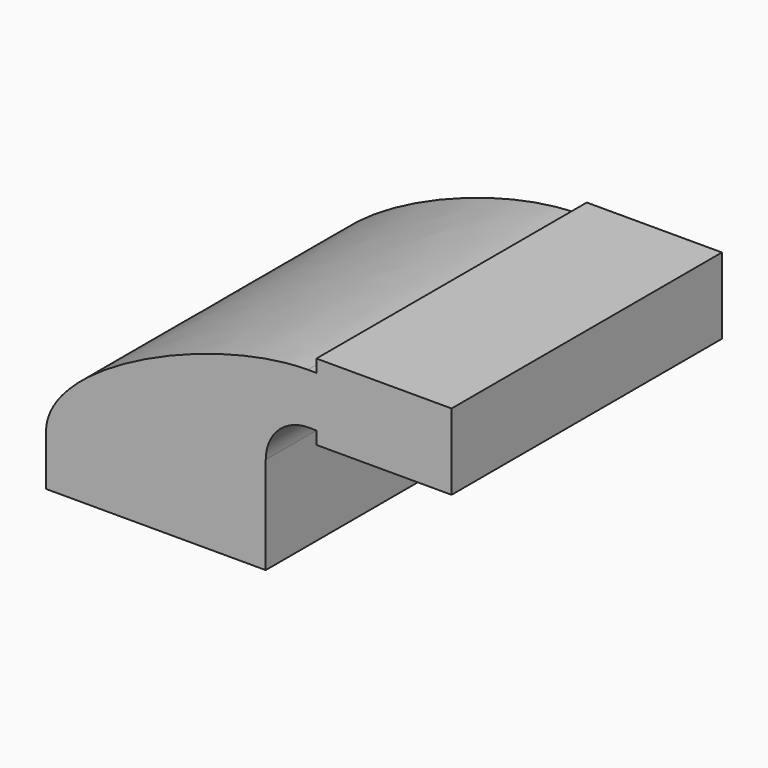
from build123d import *

# Parameters (mm, degrees)
F0_W     = 82.55
F0_H     = 19.05
F0_W_2   = 27.7625424093
F0_H_2   = 4.7498
F0_H_3   = 4.7752
F1_DEPTH = 127


with BuildPart() as f1:
    # F0 (on Front) → F1 (new body)
    with BuildSketch(Plane.XZ):
        with BuildLine():
            add(Edge.make_bspline(
                [(-41.275, 9.525), (-41.275, 33.9924029201), (21.7312667782, 61.9252), (57.15, 61.9252)],
                knots=[0, 0, 0, 0, 111.5045361635, 111.5045361635, 111.5045361635, 111.5045361635], degree=3))
            Line((-41.275, 9.525), (41.275, 9.525))
            Line((41.275, 9.525), (41.275, 27.0002))
            ThreePointArc((41.275, 27.0002), (45.9246798487, 38.2255201513), (57.15, 42.8752))
            Line((57.15, 42.8752), (60.325, 42.8752))
            Line((60.325, 42.8752), (60.325, 61.9252))
            Line((60.325, 61.9252), (57.15, 61.9252))
        make_face()
        Rectangle(F0_W, F0_H)
        with Locations((74.2062712047, 52.4002)):
            Rectangle(F0_W_2, F0_H)
        with Locations((74.2062712047, 64.3001)):
            Rectangle(F0_W_2, F0_H_2)
        with Locations((74.2062712047, 40.4876)):
            Rectangle(F0_W_2, F0_H_3)
        Polygon((88.0875424093, 66.675), (88.0875424093, 61.9252), (88.0875424093, 42.8752), (88.0875424093, 38.1), (111.125, 38.1), (111.125, 66.675), align=None)
    extrude(amount=F1_DEPTH)


solid = f1.part
